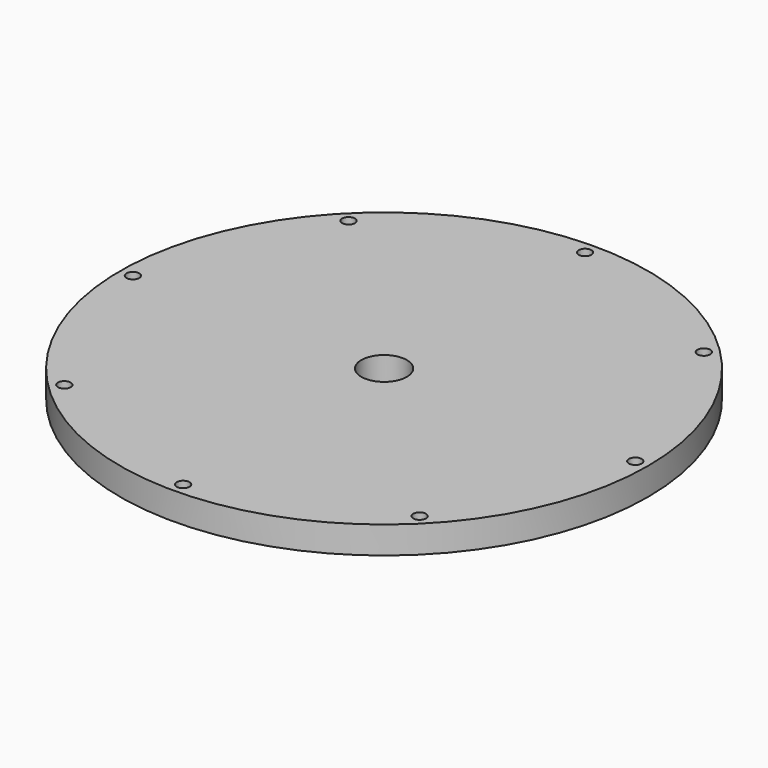
from build123d import *

# Parameters (mm, degrees)
F0_R     = 145
F0_R_2   = 3.5
F0_R_3   = 12.5
F1_DEPTH = 15


with BuildPart() as f1:
    # F0 (on Top) → F1 (new body)
    with BuildSketch(Plane.XY):
        Circle(F0_R)
        with Locations((-97.580736, -97.580736)):
            Circle(F0_R_2, mode=Mode.SUBTRACT)
        with Locations((0, -138)):
            Circle(F0_R_2, mode=Mode.SUBTRACT)
        with Locations((97.580736, -97.580736)):
            Circle(F0_R_2, mode=Mode.SUBTRACT)
        with Locations((-138, 0)):
            Circle(F0_R_2, mode=Mode.SUBTRACT)
        with Locations((-97.580736, 97.580736)):
            Circle(F0_R_2, mode=Mode.SUBTRACT)
        Circle(F0_R_3, mode=Mode.SUBTRACT)
        with Locations((138, 0)):
            Circle(F0_R_2, mode=Mode.SUBTRACT)
        with Locations((0, 138)):
            Circle(F0_R_2, mode=Mode.SUBTRACT)
        with Locations((97.580736, 97.580736)):
            Circle(F0_R_2, mode=Mode.SUBTRACT)
    extrude(amount=F1_DEPTH)


solid = f1.part
